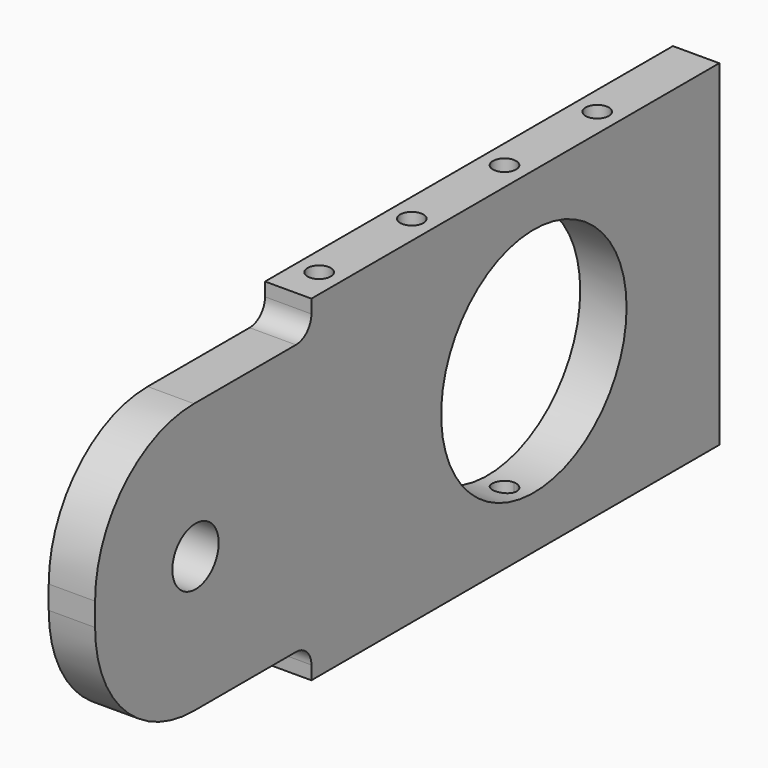
from build123d import *

# Parameters (mm, degrees)
F0_R     = 7.5
F0_R_2   = 30
F1_DEPTH = 12
F2_R     = 3
F3_DEPTH = 20
F5_DEPTH = 20


with BuildPart() as f1:
    # F0 (on Right) → F1 (new body)
    with BuildSketch(Plane.YZ):
        with BuildLine():
            ThreePointArc((0, 32), (9.372583, 9.372583), (32, 0))
            Line((32, 0), (65, 0))
            ThreePointArc((65, 0), (68.535534, -1.464466), (70, -5))
            Line((70, -5), (70, -8.5))
            Line((70, -8.5), (202, -8.5))
            Line((202, -8.5), (202, 78.5))
            Line((202, 78.5), (70, 78.5))
            Line((70, 78.5), (70, 75))
            ThreePointArc((70, 75), (68.535534, 71.464466), (65, 70))
            Line((65, 70), (32, 70))
            ThreePointArc((32, 70), (9.372583, 60.627417), (0, 38))
            Line((0, 38), (0, 32))
        make_face()
        with Locations((32.5, 35)):
            Circle(F0_R, mode=Mode.SUBTRACT)
        with Locations((142, 35)):
            Circle(F0_R_2, mode=Mode.SUBTRACT)
    extrude(amount=F1_DEPTH)

    # F2 (on face) → F3 (cut)
    with BuildSketch(Plane.XY.offset(78.5)):
        with Locations((6, 80)):
            Circle(F2_R)
        with Locations((6, 110)):
            Circle(F2_R)
        with Locations((6, 140)):
            Circle(F2_R)
        with Locations((6, 170)):
            Circle(F2_R)
    extrude(amount=-F3_DEPTH, mode=Mode.SUBTRACT)

    # F4 (on face) → F5 (cut)
    with BuildSketch(Plane(origin=(0, 0, -8.5), x_dir=(1, 0, 0), z_dir=(0, 0, -1))):
        with BuildLine():
            ThreePointArc((6, -167), (3, -170), (6, -173))
            Line((6, -173), (6, -167))
        make_face()
        with BuildLine():
            ThreePointArc((6, -77), (3, -80), (6, -83))
            Line((6, -83), (6, -80))
            Line((6, -80), (6, -77))
        make_face()
        with BuildLine():
            Line((6, -80), (6, -83))
            ThreePointArc((6, -83), (8.12132, -82.12132), (9, -80))
            Line((9, -80), (6, -80))
        make_face()
        with BuildLine():
            ThreePointArc((6, -107), (3, -110), (6, -113))
            Line((6, -113), (6, -110))
            Line((6, -110), (6, -107))
        make_face()
        with BuildLine():
            Line((6, -110), (6, -113))
            ThreePointArc((6, -113), (8.12132, -112.12132), (9, -110))
            ThreePointArc((9, -110), (8.12132, -107.87868), (6, -107))
            Line((6, -107), (6, -110))
        make_face()
        with BuildLine():
            ThreePointArc((6, -137), (3, -140), (6, -143))
            Line((6, -143), (6, -137))
        make_face()
        with BuildLine():
            Line((6, -137), (6, -143))
            ThreePointArc((6, -143), (8.12132, -142.12132), (9, -140))
            ThreePointArc((9, -140), (8.12132, -137.87868), (6, -137))
        make_face()
        with BuildLine():
            Line((6, -167), (6, -173))
            ThreePointArc((6, -173), (8.12132, -172.12132), (9, -170))
            ThreePointArc((9, -170), (8.12132, -167.87868), (6, -167))
        make_face()
        with BuildLine():
            Line((6, -77), (6, -80))
            Line((6, -80), (9, -80))
            ThreePointArc((9, -80), (8.12132, -77.87868), (6, -77))
        make_face()
    extrude(amount=-F5_DEPTH, mode=Mode.SUBTRACT)


solid = f1.part
